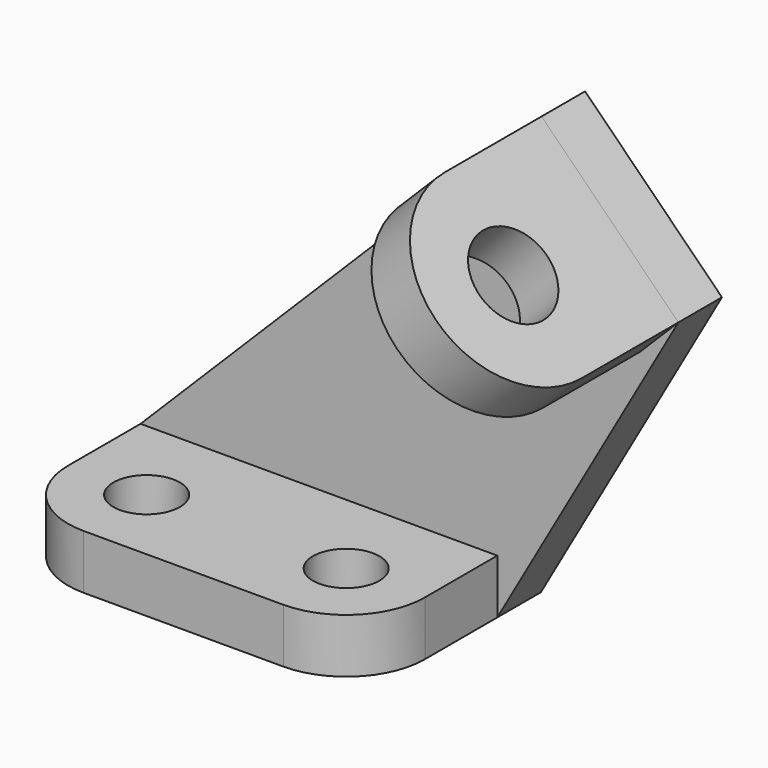
from build123d import *

# Parameters (mm, degrees)
F0_R     = 5.5
F1_DEPTH = 9
F3_DEPTH = 9
F4_R     = 7
F5_DEPTH = 9


with BuildPart() as f1:
    # F0 (on Top) → F1 (new body)
    with BuildSketch(Plane.XY):
        with BuildLine():
            ThreePointArc((-13, 0), (-9.192388, -9.192388), (0, -13))
            Line((0, -13), (33, -13))
            ThreePointArc((33, -13), (42.192388, -9.192388), (46, 0))
            Line((46, 0), (46, 15))
            Line((46, 15), (-13, 15))
            Line((-13, 15), (-13, 0))
        make_face()
        Circle(F0_R, mode=Mode.SUBTRACT)
        with Locations((33, 0)):
            Circle(F0_R, mode=Mode.SUBTRACT)
    extrude(amount=F1_DEPTH)

    # F2 (on face) → F3 (join)
    with BuildSketch(Plane(origin=(0, 15, 0), x_dir=(-1, 0, 0), z_dir=(0, 1, 0))):
        Polygon((-46, 0), (13, 0), (13, 9), (-53.313708, 75.313708), (-75.941125, 52.686292), align=None)
    extrude(amount=F3_DEPTH)

    # F4 (on face) → F5 (join)
    with BuildSketch(Plane(origin=(64.313708, 0, 64.313708), x_dir=(0, 1, 0), z_dir=(0.707107, 0, 0.707107))):
        with BuildLine():
            Line((15, -16.443651), (15, 15.556349))
            Line((15, 15.556349), (-5, 15.556349))
            ThreePointArc((-5, 15.556349), (-21, -0.443651), (-5, -16.443651))
            Line((-5, -16.443651), (15, -16.443651))
        make_face()
        with Locations((-5, -0.443651)):
            Circle(F4_R, mode=Mode.SUBTRACT)
    extrude(amount=-F5_DEPTH)


solid = f1.part
